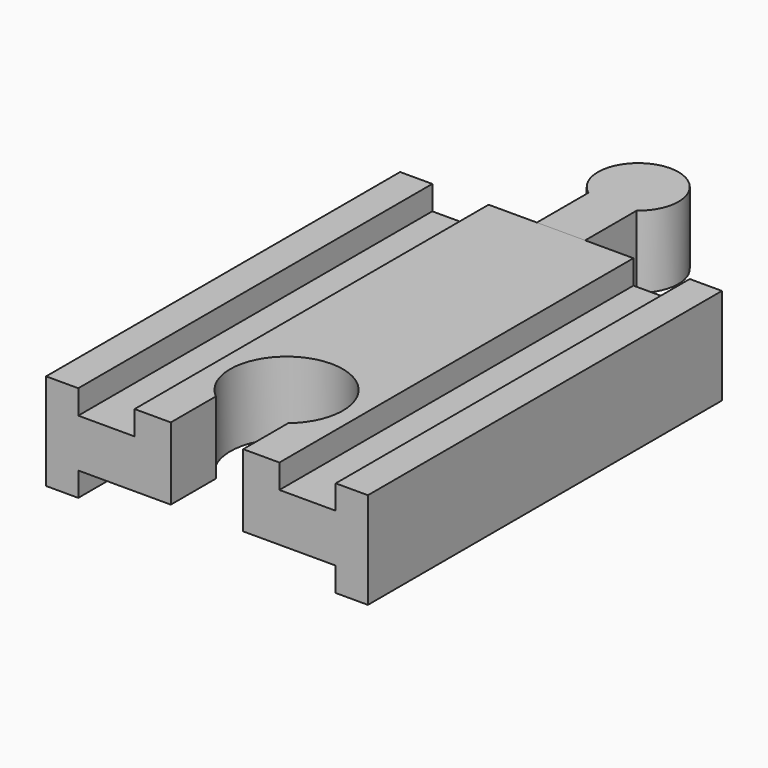
from build123d import *

# Parameters (mm, degrees)
PAD_DEPTH         = 55
POCKET_DEPTH      = 12.001
PAD001_DEPTH      = 6
PAD001_DEPTH_BACK = 3


with BuildPart() as body:
    # Sketch → Pad (new body)
    with BuildSketch(Plane.XZ):
        Polygon((-20, 6), (-20, -6), (-16, -6), (-16, -3), (-9, -3), (9, -3), (16, -3), (16, -6), (20, -6), (20, 6), (16, 6), (16, 3), (9, 3), (9, 6), (-9, 6), (-9, 3), (-16, 3), (-16, 6), align=None)
    extrude(amount=PAD_DEPTH)

    # Sketch002 (on Face14 of Pad) → Pocket (cut, through all)
    with BuildSketch(Plane(origin=(0, 0, 6), x_dir=(-1, 0, 0), z_dir=(0, 0, 1))):
        with BuildLine():
            Line((-4.5, 55), (4.5, 55))
            Line((4.5, 55), (4.5, 48))
            ThreePointArc((-4.5, 48), (0, 35.638097), (4.5, 48))
            Line((-4.5, 55), (-4.5, 48))
        make_face()
    extrude(amount=-POCKET_DEPTH, mode=Mode.SUBTRACT)


with BuildPart() as body001:
    # Sketch001 → Pad001 (new body, two sides)
    with BuildSketch(Plane.XY) as pad001_sk:
        with BuildLine():
            Line((-3, 0), (3, 0))
            Line((3, 0), (3, 8))
            ThreePointArc((3, 8), (0, 17), (-3, 8))
            Line((-3, 0), (-3, 8))
        make_face()
    extrude(amount=PAD001_DEPTH)
    extrude(pad001_sk.sketch, amount=-PAD001_DEPTH_BACK)


solid = Compound([body.part, body001.part])
